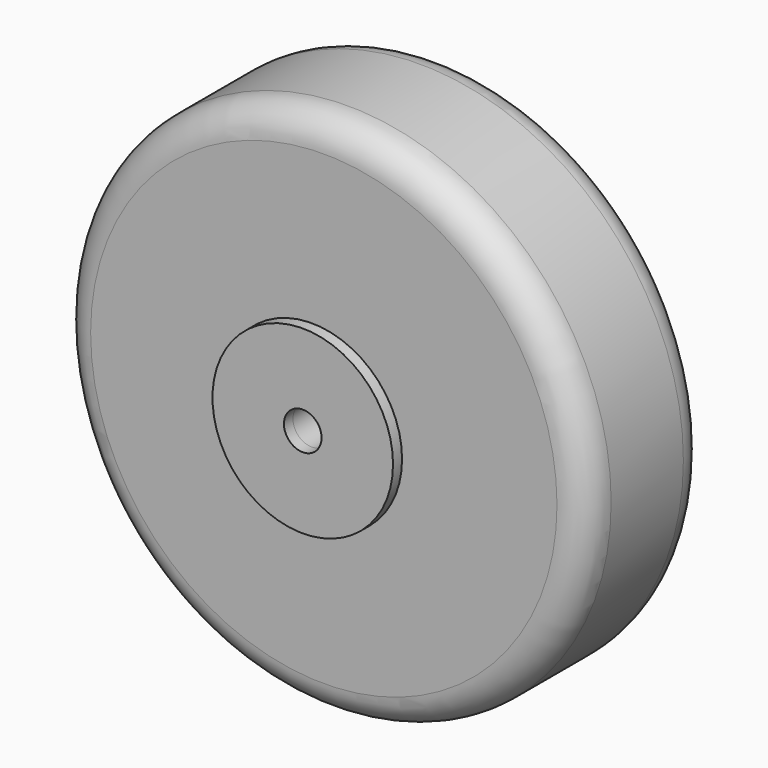
from build123d import *

# Parameters (mm, degrees)
F0_R      = 111.125
F0_R_2    = 7.9375
F1_DEPTH  = 63.5
F2_R      = 12.7
F3_R      = 12.7
F4_R      = 25.4
F4_R_2    = 7.9375
F5_DEPTH  = 6.35
F6_R      = 38.1
F6_R_2    = 25.4
F7_DEPTH  = 4.7625
F8_R      = 25.4
F8_R_2    = 7.9375
F9_DEPTH  = 6.35
F10_R     = 38.1
F10_R_2   = 25.4
F11_DEPTH = 4.7625
F14_R     = 38.1
F14_R_2   = 25.4
F14_R_3   = 7.9375
F15_DEPTH = 4.7625
F16_R     = 38.1
F16_R_2   = 25.4
F16_R_3   = 7.9375
F17_DEPTH = 4.7625


with BuildPart() as f1:
    # F0 (on Front) → F1 (new body)
    with BuildSketch(Plane.XZ):
        Circle(F0_R)
        Circle(F0_R_2, mode=Mode.SUBTRACT)
    extrude(amount=F1_DEPTH)

    # F2
    f2_edges = [f1.edges().sort_by_distance(p)[0] for p in [
        (-111.125, -63.5, 0),
    ]]
    fillet(f2_edges, radius=F2_R)

    # F3
    f3_edges = [f1.edges().sort_by_distance(p)[0] for p in [
        (-111.125, 0, 0),
    ]]
    fillet(f3_edges, radius=F3_R)

    # F4 (on face) → F5 (join)
    with BuildSketch(Plane.XZ.offset(63.5)):
        Circle(F4_R)
        Circle(F4_R_2, mode=Mode.SUBTRACT)
    extrude(amount=F5_DEPTH)

    # F8 (on face) → F9 (join)
    with BuildSketch(Plane(origin=(0, 0, 0), x_dir=(-1, 0, 0), z_dir=(0, 1, 0))):
        Circle(F8_R)
        Circle(F8_R_2, mode=Mode.SUBTRACT)
    extrude(amount=F9_DEPTH)

    # F14 (on face) → F15 (join)
    with BuildSketch(Plane.XZ.offset(69.85)):
        Circle(F14_R)
        Circle(F14_R_2, mode=Mode.SUBTRACT)
        Circle(F14_R_2)
        Circle(F14_R_3, mode=Mode.SUBTRACT)
    extrude(amount=F15_DEPTH)

    # F16 (on face) → F17 (join)
    with BuildSketch(Plane(origin=(0, 6.35, 0), x_dir=(-1, 0, 0), z_dir=(0, 1, 0))):
        Circle(F16_R)
        Circle(F16_R_2, mode=Mode.SUBTRACT)
        Circle(F16_R_2)
        Circle(F16_R_3, mode=Mode.SUBTRACT)
    extrude(amount=F17_DEPTH)


with BuildPart() as f7:
    # F6 (on face) → F7 (new body)
    with BuildSketch(Plane.XZ.offset(69.85)):
        Circle(F6_R)
        Circle(F6_R_2, mode=Mode.SUBTRACT)
    extrude(amount=F7_DEPTH)


with BuildPart() as f11:
    # F10 (on face) → F11 (new body)
    with BuildSketch(Plane(origin=(0, 6.35, 0), x_dir=(-1, 0, 0), z_dir=(0, 1, 0))):
        Circle(F10_R)
        Circle(F10_R_2, mode=Mode.SUBTRACT)
    extrude(amount=F11_DEPTH)


solid = f1.part
